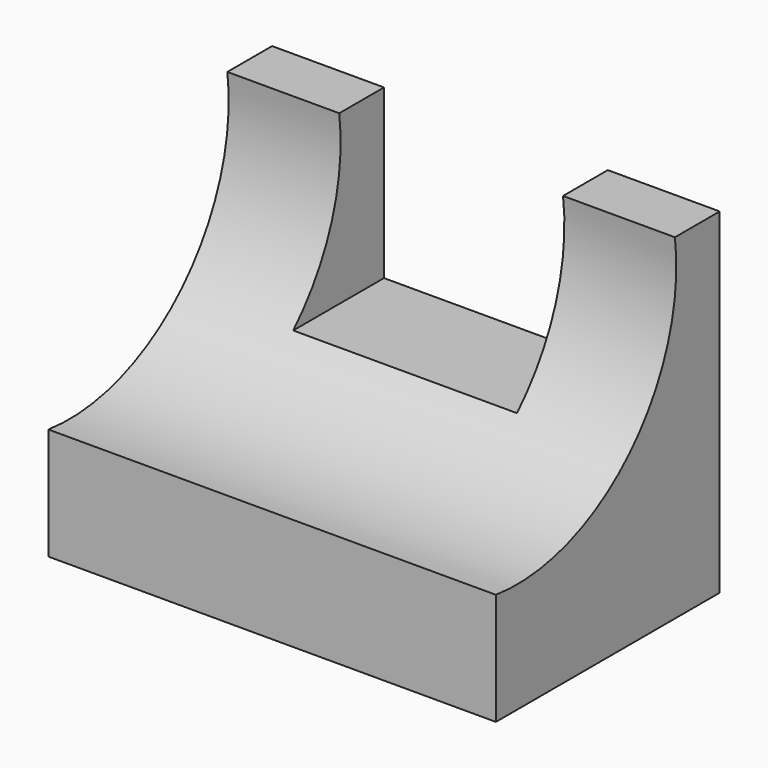
from build123d import *

# Parameters (mm, degrees)
F0_W     = 31.75
F0_H     = 38.1
F1_DEPTH = 50.8
F3_DEPTH = 50.801
F4_W     = 25.4
F4_H     = 19.05
F5_DEPTH = 31.751


with BuildPart() as f1:
    # F0 (on Right) → F1 (new body)
    with BuildSketch(Plane.YZ):
        with Locations((-7.991497, 19.05)):
            Rectangle(F0_W, F0_H)
    extrude(amount=F1_DEPTH)

    # F2 (on face) → F3 (cut, through all)
    with BuildSketch(Plane(origin=(0, 0, 0), x_dir=(0, -1, 0), z_dir=(-1, 0, 0))):
        with BuildLine():
            Line((23.866497, 38.1), (-1.533503, 38.1))
            ThreePointArc((-1.533503, 38.1), (4.905563, 19.139066), (23.866497, 12.7))
            Line((23.866497, 12.7), (23.866497, 38.1))
        make_face()
    extrude(amount=-F3_DEPTH, mode=Mode.SUBTRACT)

    # F4 (on face) → F5 (cut, through all)
    with BuildSketch(Plane(origin=(0, 7.883503, 0), x_dir=(-1, 0, 0), z_dir=(0, 1, 0))):
        with Locations((-25.4, 28.575)):
            Rectangle(F4_W, F4_H)
    extrude(amount=-F5_DEPTH, mode=Mode.SUBTRACT)


solid = f1.part
